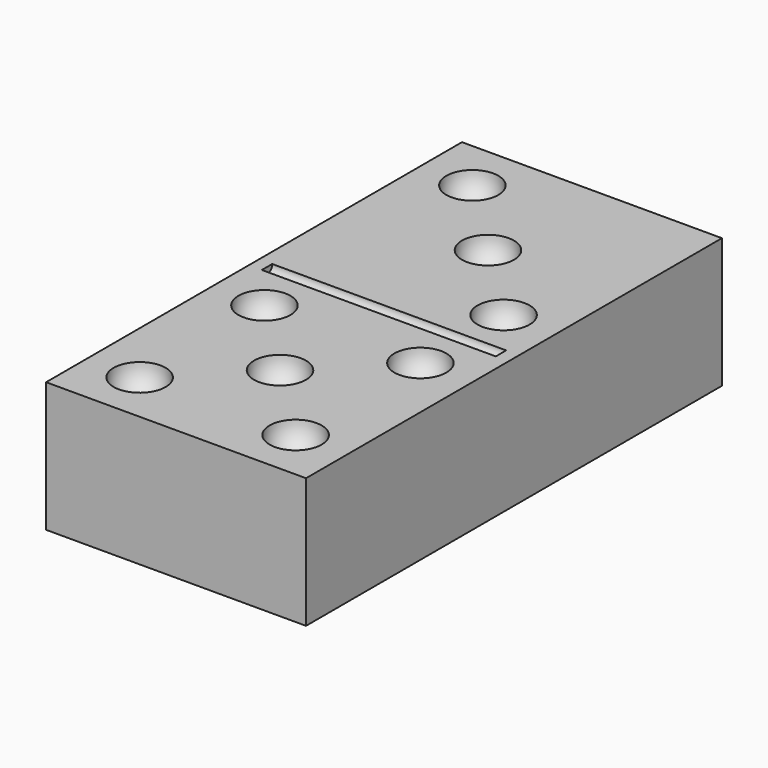
from build123d import *

# Parameters (mm, degrees)
CYLINDER_R     = 0.5
CYLINDER_DEPTH = 18
BOX_W          = 20
BOX_H          = 40
BOX_DEPTH      = 10


with BuildPart() as esfera006:
    # Sphere006 → Sphere006 (revolve)
    with BuildSketch(Plane(origin=(16, 24, 10), x_dir=(1, 0, 0), z_dir=(0, -1, 0))):
        with BuildLine():
            ThreePointArc((0, -2), (2, 0), (0, 2))
            Line((0, 2), (0, -2))
        make_face()
    revolve(axis=Axis((16, 24, 10), (0, 0, 1)))


with BuildPart() as esfera007:
    # Sphere007 → Sphere007 (revolve)
    with BuildSketch(Plane(origin=(10, 30, 10), x_dir=(1, 0, 0), z_dir=(0, -1, 0))):
        with BuildLine():
            ThreePointArc((0, -2), (2, 0), (0, 2))
            Line((0, 2), (0, -2))
        make_face()
    revolve(axis=Axis((10, 30, 10), (0, 0, 1)))


with BuildPart() as fusion001:
    # Sphere005 → Sphere005 (revolve)
    with BuildSketch(Plane(origin=(4, 36, 10), x_dir=(1, 0, 0), z_dir=(0, -1, 0))):
        with BuildLine():
            ThreePointArc((0, -2), (2, 0), (0, 2))
            Line((0, 2), (0, -2))
        make_face()
    revolve(axis=Axis((4, 36, 10), (0, 0, 1)))

    # Fusion001: union Esfera006, Esfera007
    add(esfera006.part)
    add(esfera007.part)


with BuildPart() as esfera001:
    # Sphere001 → Sphere001 (revolve)
    with BuildSketch(Plane(origin=(16, 4, 10), x_dir=(1, 0, 0), z_dir=(0, -1, 0))):
        with BuildLine():
            ThreePointArc((0, -2), (2, 0), (0, 2))
            Line((0, 2), (0, -2))
        make_face()
    revolve(axis=Axis((16, 4, 10), (0, 0, 1)))


with BuildPart() as esfera002:
    # Sphere002 → Sphere002 (revolve)
    with BuildSketch(Plane(origin=(4, 16, 10), x_dir=(1, 0, 0), z_dir=(0, -1, 0))):
        with BuildLine():
            ThreePointArc((0, -2), (2, 0), (0, 2))
            Line((0, 2), (0, -2))
        make_face()
    revolve(axis=Axis((4, 16, 10), (0, 0, 1)))


with BuildPart() as esfera003:
    # Sphere003 → Sphere003 (revolve)
    with BuildSketch(Plane(origin=(16, 16, 10), x_dir=(1, 0, 0), z_dir=(0, -1, 0))):
        with BuildLine():
            ThreePointArc((0, -2), (2, 0), (0, 2))
            Line((0, 2), (0, -2))
        make_face()
    revolve(axis=Axis((16, 16, 10), (0, 0, 1)))


with BuildPart() as esfera004:
    # Sphere004 → Sphere004 (revolve)
    with BuildSketch(Plane(origin=(10, 10, 10), x_dir=(1, 0, 0), z_dir=(0, -1, 0))):
        with BuildLine():
            ThreePointArc((0, -2), (2, 0), (0, 2))
            Line((0, 2), (0, -2))
        make_face()
    revolve(axis=Axis((10, 10, 10), (0, 0, 1)))


with BuildPart() as fusion:
    # Sphere → Sphere (revolve)
    with BuildSketch(Plane(origin=(4, 4, 10), x_dir=(1, 0, 0), z_dir=(0, -1, 0))):
        with BuildLine():
            ThreePointArc((0, -2), (2, 0), (0, 2))
            Line((0, 2), (0, -2))
        make_face()
    revolve(axis=Axis((4, 4, 10), (0, 0, 1)))

    # Fusion: union Esfera001, Esfera002, Esfera003, Esfera004
    add(esfera001.part)
    add(esfera002.part)
    add(esfera003.part)
    add(esfera004.part)


with BuildPart() as cilindre:
    # Cylinder → Cylinder (new body)
    with BuildSketch(Plane(origin=(1, 20, 10), x_dir=(0, 0, -1), z_dir=(1, 0, 0))):
        Circle(CYLINDER_R)
    extrude(amount=CYLINDER_DEPTH)


with BuildPart() as domino:
    # Box → Box (new body)
    with BuildSketch(Plane.XY):
        with Locations((10, 20)):
            Rectangle(BOX_W, BOX_H)
    extrude(amount=BOX_DEPTH)

    # Cut: cut Cilindre
    add(cilindre.part, mode=Mode.SUBTRACT)

    # Cut001: cut Fusion
    add(fusion.part, mode=Mode.SUBTRACT)

    # Cut002: cut Fusion001
    add(fusion001.part, mode=Mode.SUBTRACT)


solid = domino.part
